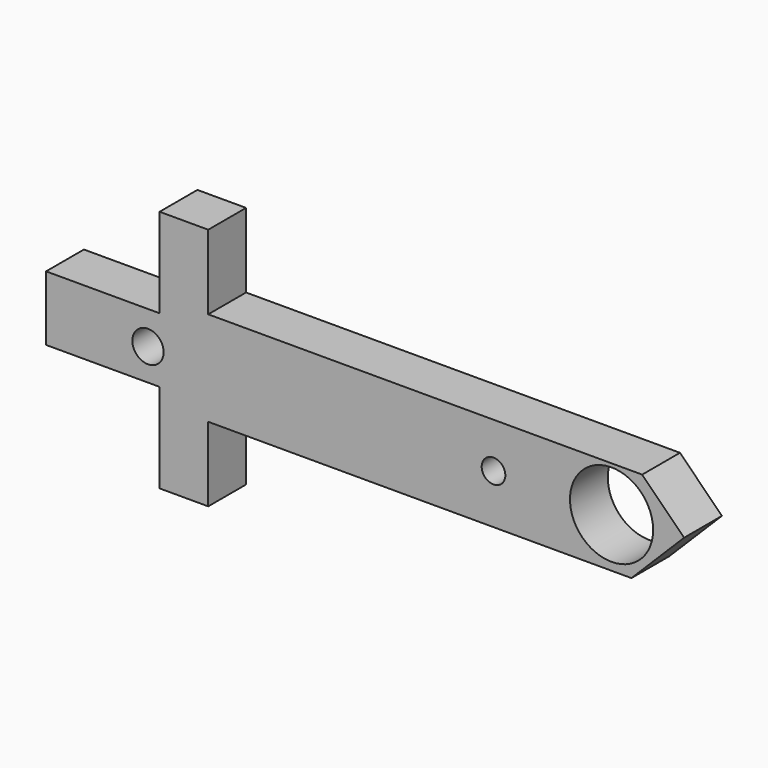
from build123d import *

# Parameters (mm, degrees)
F0_R     = 2.101025
F0_R_2   = 1.5875
F0_R_3   = 5.584671
F1_DEPTH = 3.175


with BuildPart() as f1:
    # F0 (on Front) → F1 (new body, symmetric)
    with BuildSketch(Plane.XZ):
        Polygon((-46.817864, -12.7), (-46.817864, 0), (-46.817864, 10), (-53.349793, 10), (-53.349793, -2), (-68.587884, -2), (-68.587884, -10.7), (-53.349793, -10.7), (-53.349793, -22.7), (-46.817864, -22.7), align=None)
        with Locations((-54.907676, -6.436401)):
            Circle(F0_R, mode=Mode.SUBTRACT)
        Polygon((11.442136, 0), (1.442136, 0), (-46.817864, 0), (-46.817864, -12.7), (0, -12.7), (10, -12.7), (17.071068, -5.628932), align=None)
        with Locations((-8.515809, -6.064869)):
            Circle(F0_R_2, mode=Mode.SUBTRACT)
        with Locations((7.333491, -6.064869)):
            Circle(F0_R_3, mode=Mode.SUBTRACT)
    extrude(amount=F1_DEPTH, both=True)


solid = f1.part
